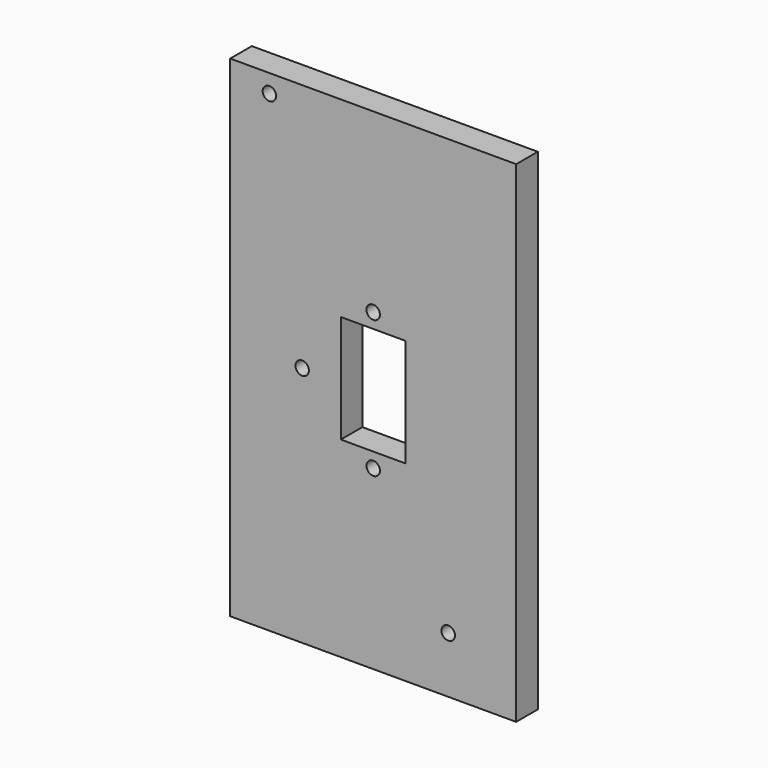
from build123d import *

# Parameters (mm, degrees)
F0_W     = 67.31
F0_H     = 115.57
F0_R     = 1.5875
F0_W_2   = 15.24
F0_H_2   = 25.4
F1_DEPTH = 6.35


with BuildPart() as f1:
    # F0 (on Front) → F1 (new body)
    with BuildSketch(Plane.XZ):
        Rectangle(F0_W, F0_H)
        with Locations((-16.718789, -0.85381)):
            Circle(F0_R, mode=Mode.SUBTRACT)
        with Locations((17.655775, -44.566292)):
            Circle(F0_R, mode=Mode.SUBTRACT)
        with Locations((0, -16.167682)):
            Circle(F0_R, mode=Mode.SUBTRACT)
        with Locations((-24.433443, 53.516702)):
            Circle(F0_R, mode=Mode.SUBTRACT)
        Rectangle(F0_W_2, F0_H_2, mode=Mode.SUBTRACT)
        with Locations((0, 16.160766)):
            Circle(F0_R, mode=Mode.SUBTRACT)
    extrude(amount=F1_DEPTH)


solid = f1.part
